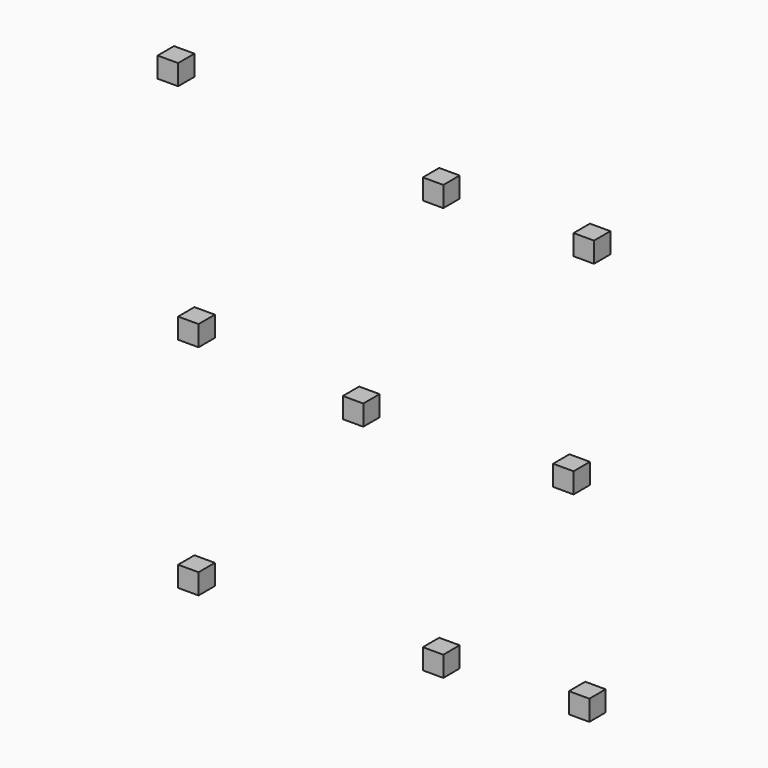
from build123d import *

# Parameters (mm, degrees)
F0_W     = 25.4
F0_H     = 25.4
F1_DEPTH = 25.4


with BuildPart() as f1:
    # F0 (on Front) → F1 (new body)
    with BuildSketch(Plane.XZ):
        with Locations((-279.641446, 272.384299)):
            Rectangle(F0_W, F0_H)
        with Locations((49.832874, 246.258561)):
            Rectangle(F0_W, F0_H)
        with Locations((237.067162, 246.258561)):
            Rectangle(F0_W, F0_H)
        with Locations((-254.241446, -4.838589)):
            Rectangle(F0_W, F0_H)
        with Locations((-49.589988, -25.15859)):
            Rectangle(F0_W, F0_H)
        with Locations((211.667162, -14.272877)):
            Rectangle(F0_W, F0_H)
        with Locations((-254.241446, -276.255748)):
            Rectangle(F0_W, F0_H)
        with Locations((49.832874, -267.547183)):
            Rectangle(F0_W, F0_H)
        with Locations((231.261448, -256.661477)):
            Rectangle(F0_W, F0_H)
    extrude(amount=F1_DEPTH)


solid = f1.part
